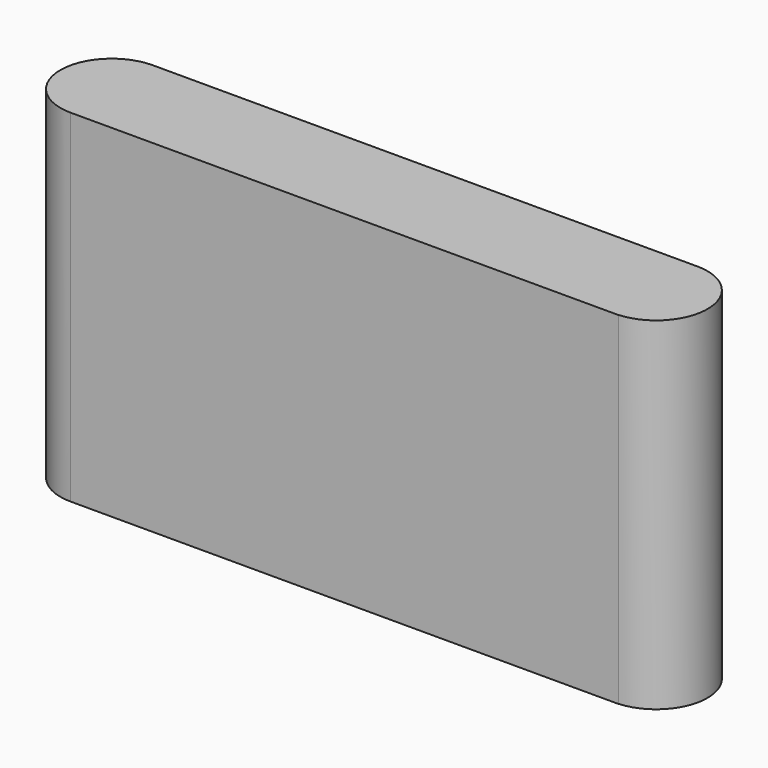
from build123d import *

# Parameters (mm, degrees)
CYLINDER003_R     = 1.5
CYLINDER003_DEPTH = 10
CYLINDER002_R     = 1.5
CYLINDER002_DEPTH = 10
BOX009_W          = 16
BOX009_H          = 3
BOX009_DEPTH      = 10


with BuildPart() as cylinder003:
    # Cylinder003 → Cylinder003 (new body)
    with BuildSketch(Plane(origin=(15.9, 1.5, 0), x_dir=(1, 0, 0), z_dir=(0, 0, 1))):
        Circle(CYLINDER003_R)
    extrude(amount=CYLINDER003_DEPTH)


with BuildPart() as cylinder002:
    # Cylinder002 → Cylinder002 (new body)
    with BuildSketch(Plane(origin=(0, 1.5, 0), x_dir=(1, 0, 0), z_dir=(0, 0, 1))):
        Circle(CYLINDER002_R)
    extrude(amount=CYLINDER002_DEPTH)


with BuildPart() as hole_template_d3:
    # Box009 → Box009 (new body)
    with BuildSketch(Plane.XY):
        with Locations((8, 1.5)):
            Rectangle(BOX009_W, BOX009_H)
    extrude(amount=BOX009_DEPTH)

    # Fusion004: union Cylinder003, Cylinder002
    add(cylinder003.part)
    add(cylinder002.part)


solid = hole_template_d3.part
